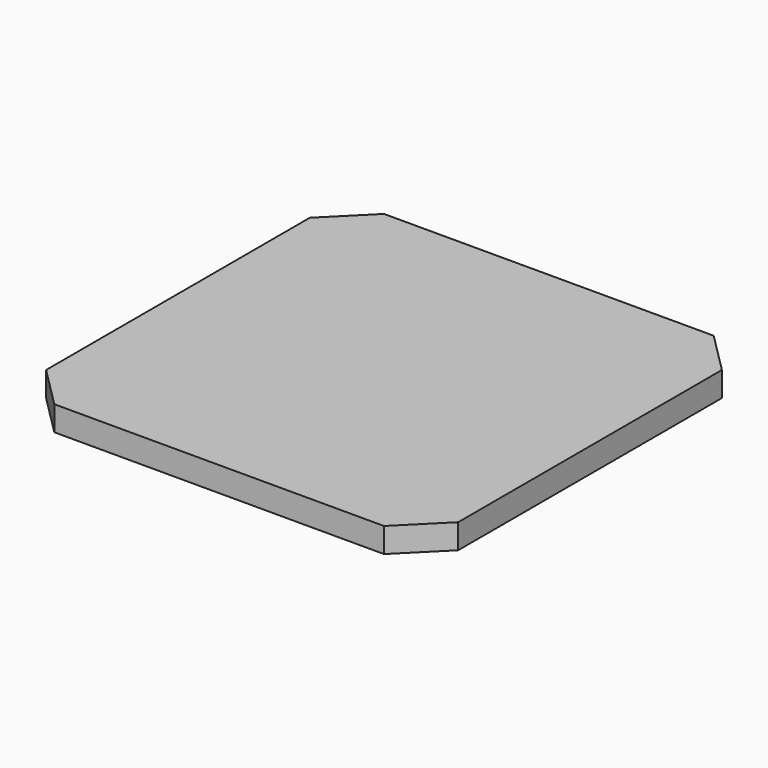
from build123d import *

# Parameters (mm, degrees)
F0_W     = 500
F0_H     = 500
F1_DEPTH = 30
F2_SIZE  = 50
F4_DEPTH = 20


with BuildPart() as f1:
    # F0 (on Top) → F1 (new body)
    with BuildSketch(Plane.XY):
        Rectangle(F0_W, F0_H)
    extrude(amount=F1_DEPTH)

    # F2
    f2_edges = [f1.edges().sort_by_distance(p)[0] for p in [
        (250, -250, 15),
        (250, 250, 15),
        (-250, -250, 15),
        (-250, 250, 15),
    ]]
    chamfer(f2_edges, length=F2_SIZE)

    # F3 (on face) → F4 (cut)
    with BuildSketch(Plane(origin=(0, 0, 0), x_dir=(1, 0, 0), z_dir=(0, 0, -1))):
        with BuildLine():
            ThreePointArc((-35, -75), (0, -110), (35, -75))
            Line((35, -75), (35, 75))
            ThreePointArc((35, 75), (0, 110), (-35, 75))
            Line((-35, 75), (-35, -75))
        make_face()
    extrude(amount=-F4_DEPTH, mode=Mode.SUBTRACT)


solid = f1.part
